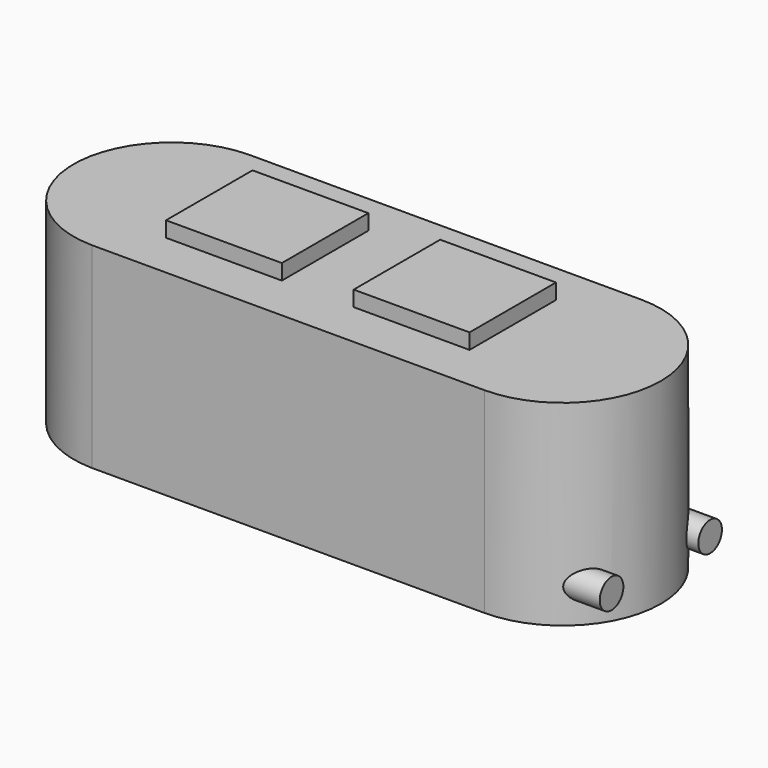
from build123d import *

# Parameters (mm, degrees)
F0_W     = 75
F0_H     = 70
F1_DEPTH = 10
F2_DEPTH = 10
F3_DEPTH = 127
F4_R     = 9.556276
F5_DEPTH = 190.5
F6_R     = 10.323091
F7_DEPTH = 71.12
F8_R     = 28.4047
F9_DEPTH = 5.08


with BuildPart() as f1:
    # F0 (on Top) → F1 (new body)
    with BuildSketch(Plane.XY):
        with Locations((56.145626, 1.21852)):
            Rectangle(F0_W, F0_H)
    extrude(amount=F1_DEPTH)


with BuildPart() as f2:
    # F0 (on Top) → F2 (new body)
    with BuildSketch(Plane.XY):
        with Locations((-65.379949, 1.21852)):
            Rectangle(F0_W, F0_H)
    extrude(amount=F2_DEPTH)


with BuildPart() as f3:
    # F0 (on Top) → F3 (new body)
    with BuildSketch(Plane.XY):
        with BuildLine():
            ThreePointArc((-127, 63.5), (-189.753339, 0), (-127, -63.5))
            Line((-127, -63.5), (-127, 63.5))
        make_face()
        Polygon((-125.497793, -63.5), (127, -63.5), (127, 63.5), (-125.497793, 63.5), (-127, 63.5), (-127, -63.5), align=None)
        with Locations((-65.379949, 1.21852)):
            Rectangle(F0_W, F0_H, mode=Mode.SUBTRACT)
        with Locations((56.145626, 1.21852)):
            Rectangle(F0_W, F0_H, mode=Mode.SUBTRACT)
        with BuildLine():
            Line((127, 63.5), (127, -63.5))
            ThreePointArc((127, -63.5), (190.5, 0), (127, 63.5))
        make_face()
    extrude(amount=-F3_DEPTH)

    # F4 (on Right) → F5 (join)
    with BuildSketch(Plane.YZ):
        with Locations((39.891906, -104.851119)):
            Circle(F4_R)
        with Locations((-39.891906, -104.851119)):
            Circle(F4_R)
    extrude(amount=F5_DEPTH)

    # F6 (on Front) → F7 (join)
    with BuildSketch(Plane.XZ):
        with Locations((61.326012, -116.8942)):
            Circle(F6_R)
        with Locations((-61.326012, -116.8942)):
            Circle(F6_R)
    extrude(amount=-F7_DEPTH)

    # F8 (on face) → F9 (join)
    with BuildSketch(Plane(origin=(0, 63.5, 0), x_dir=(-1, 0, 0), z_dir=(0, 1, 0))):
        with Locations((-61.326012, -116.8942)):
            Circle(F8_R)
        with Locations((61.326012, -116.8942)):
            Circle(F8_R)
    extrude(amount=F9_DEPTH)


solid = Compound([f1.part, f2.part, f3.part])
